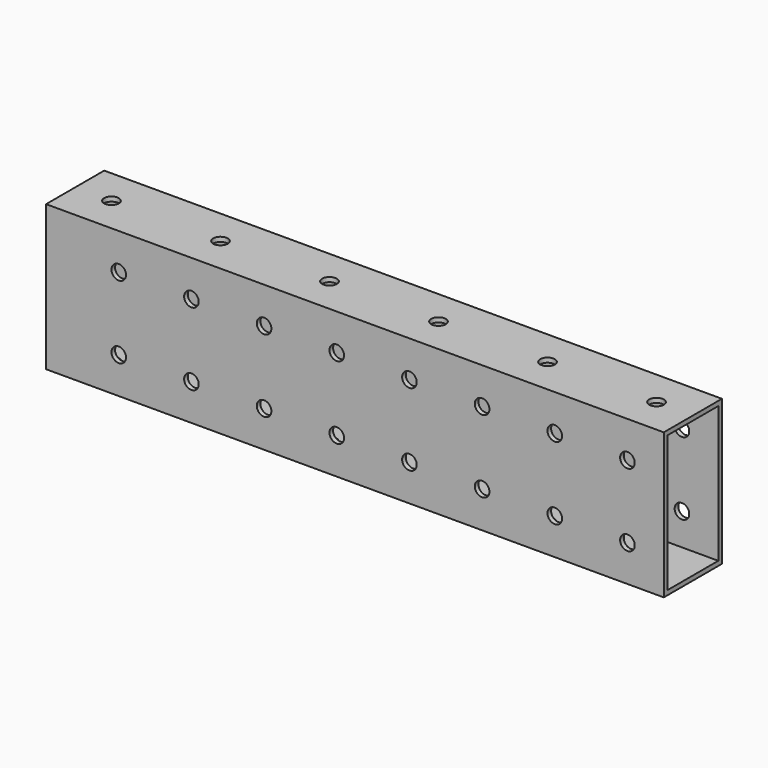
from build123d import *

# Parameters (mm, degrees)
F0_W     = 215.9
F0_H     = 50.8
F0_R     = 2.5527
F1_DEPTH = 25.4
F2_W     = 22.225
F2_H     = 47.625
F3_DEPTH = 215.901
F4_R     = 2.5527
F5_DEPTH = 50.801


with BuildPart() as f1:
    # F0 (on Front) → F1 (new body)
    with BuildSketch(Plane.XZ):
        Rectangle(F0_W, F0_H)
        with Locations((-82.55, -12.7)):
            Circle(F0_R, mode=Mode.SUBTRACT)
        with Locations((-57.15, -12.7)):
            Circle(F0_R, mode=Mode.SUBTRACT)
        with Locations((-31.75, -12.7)):
            Circle(F0_R, mode=Mode.SUBTRACT)
        with Locations((-6.35, -12.7)):
            Circle(F0_R, mode=Mode.SUBTRACT)
        with Locations((19.05, -12.7)):
            Circle(F0_R, mode=Mode.SUBTRACT)
        with Locations((44.45, -12.7)):
            Circle(F0_R, mode=Mode.SUBTRACT)
        with Locations((69.85, -12.7)):
            Circle(F0_R, mode=Mode.SUBTRACT)
        with Locations((95.25, -12.7)):
            Circle(F0_R, mode=Mode.SUBTRACT)
        with Locations((-82.55, 12.7)):
            Circle(F0_R, mode=Mode.SUBTRACT)
        with Locations((-57.15, 12.7)):
            Circle(F0_R, mode=Mode.SUBTRACT)
        with Locations((-31.75, 12.7)):
            Circle(F0_R, mode=Mode.SUBTRACT)
        with Locations((-6.35, 12.7)):
            Circle(F0_R, mode=Mode.SUBTRACT)
        with Locations((19.05, 12.7)):
            Circle(F0_R, mode=Mode.SUBTRACT)
        with Locations((44.45, 12.7)):
            Circle(F0_R, mode=Mode.SUBTRACT)
        with Locations((69.85, 12.7)):
            Circle(F0_R, mode=Mode.SUBTRACT)
        with Locations((95.25, 12.7)):
            Circle(F0_R, mode=Mode.SUBTRACT)
    extrude(amount=F1_DEPTH)

    # F2 (on face) → F3 (cut, through all)
    with BuildSketch(Plane(origin=(-107.95, 0, 0), x_dir=(0, -1, 0), z_dir=(-1, 0, 0))):
        with Locations((12.7, 0)):
            Rectangle(F2_W, F2_H)
    extrude(amount=-F3_DEPTH, mode=Mode.SUBTRACT)

    # F4 (on face) → F5 (cut, through all)
    with BuildSketch(Plane.XY.offset(25.4)):
        with Locations((-95.25, -12.7)):
            Circle(F4_R)
        with Locations((-57.15, -12.7)):
            Circle(F4_R)
        with Locations((-19.05, -12.7)):
            Circle(F4_R)
        with Locations((19.05, -12.7)):
            Circle(F4_R)
        with Locations((57.15, -12.7)):
            Circle(F4_R)
        with Locations((95.25, -12.7)):
            Circle(F4_R)
    extrude(amount=-F5_DEPTH, mode=Mode.SUBTRACT)


solid = f1.part
